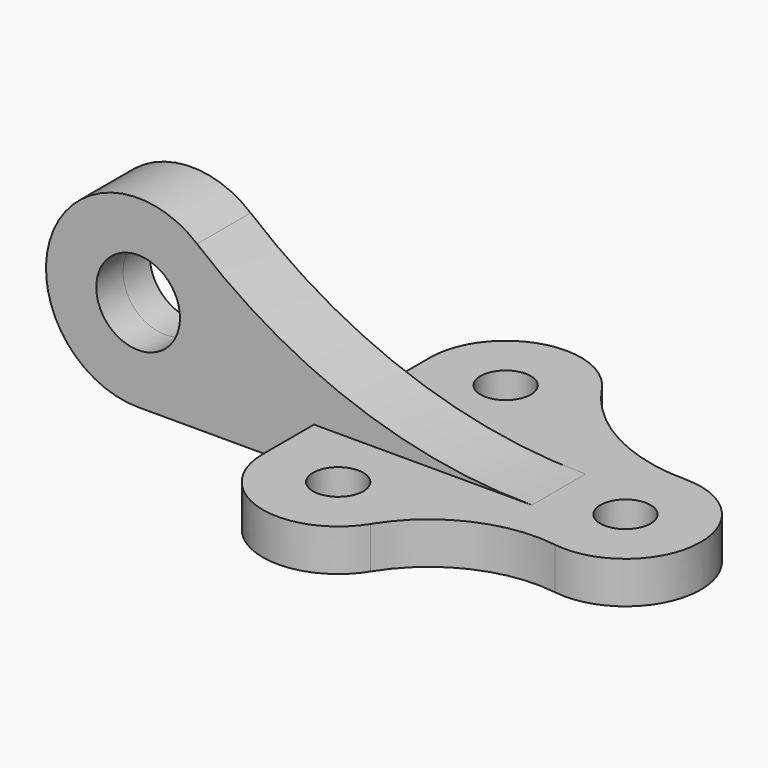
from build123d import *

# Parameters (mm, degrees)
F0_R          = 6
F1_DEPTH      = 10
F2_R          = 10
F3_DEPTH      = 8
F3_DEPTH_BACK = 8


with BuildPart() as f1:
    # F0 (on Top) → F1 (new body)
    with BuildSketch(Plane.XY):
        with BuildLine():
            ThreePointArc((-34.676423, -32.725742), (-20.892766, -20.461597), (-2.634981, -17.806091))
            ThreePointArc((-2.634981, -17.806091), (17.951457, -1.321053), (0, 18))
            ThreePointArc((0, 18), (-19.862144, 22.974), (-35.035837, 36.721888))
            ThreePointArc((-35.035837, 36.721888), (-55.227096, 43.942524), (-68, 26.718197))
            Line((-68, 26.718197), (-68, -23.281803))
            ThreePointArc((-68, -23.281803), (-54.907933, -40.599777), (-34.676423, -32.725742))
        make_face()
        with Locations((-50, -23.281803)):
            Circle(F0_R, mode=Mode.SUBTRACT)
        Circle(F0_R, mode=Mode.SUBTRACT)
        with Locations((-50, 26.718197)):
            Circle(F0_R, mode=Mode.SUBTRACT)
    extrude(amount=F1_DEPTH)

    # F2 (on Front) → F3 (join, two sides)
    with BuildSketch(Plane.XZ) as f3_sk:
        with BuildLine():
            ThreePointArc((-15.978726, 10), (-58.487228, 17.449895), (-95.928789, 38.911565))
            ThreePointArc((-95.928789, 38.911565), (-130.688818, 29.481496), (-110, 0))
            Line((-110, 0), (-15.978726, 0))
            Line((-15.978726, 0), (-15.978726, 10))
        make_face()
        with Locations((-110, 22)):
            Circle(F2_R, mode=Mode.SUBTRACT)
    extrude(amount=F3_DEPTH)
    extrude(f3_sk.sketch, amount=-F3_DEPTH_BACK)


solid = f1.part
